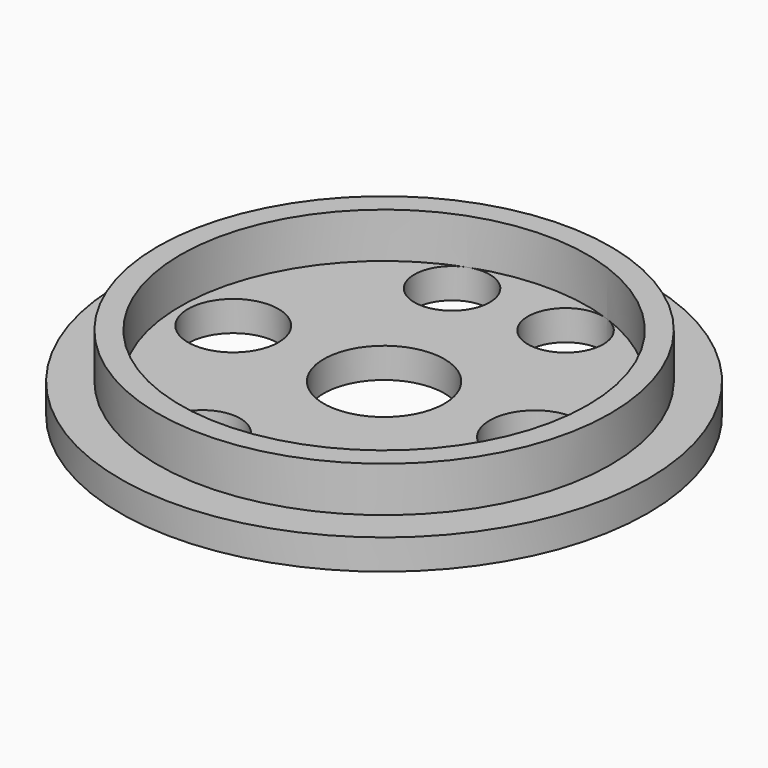
from build123d import *

# Parameters (mm, degrees)
SKETCH_R        = 17.5
SKETCH_R_2      = 4
PAD_DEPTH       = 2
SKETCH001_R     = 15
SKETCH001_R_2   = 13.5
PAD001_DEPTH    = 3
SKETCH002_R     = 3
POCKET_DEPTH    = 5
SKETCH004_R     = 2.5
POCKET001_DEPTH = 2.001


with BuildPart() as part:
    # Sketch → Pad (new body)
    with BuildSketch(Plane.XY):
        Circle(SKETCH_R)
        Circle(SKETCH_R_2, mode=Mode.SUBTRACT)
    extrude(amount=PAD_DEPTH)

    # Sketch001 (on Face4 of Pad) → Pad001 (join)
    with BuildSketch(Plane.XY.offset(2)):
        Circle(SKETCH001_R)
        Circle(SKETCH001_R_2, mode=Mode.SUBTRACT)
    extrude(amount=PAD001_DEPTH)

    # Sketch002 (on Face2 of Pad001) → Pocket (cut)
    with BuildSketch(Plane(origin=(0, 0, 0), x_dir=(1, 0, 0), z_dir=(0, 0, -1))):
        with Locations((-10, 0)):
            Circle(SKETCH002_R)
        with Locations((10, 0)):
            Circle(SKETCH002_R)
    extrude(amount=-POCKET_DEPTH, mode=Mode.SUBTRACT)

    # Sketch004 (on Face8 of Pocket) → Pocket001 (cut, through all)
    with BuildSketch(Plane.XY.offset(2)):
        with Locations((3.762222, -10.336619)):
            Circle(SKETCH004_R)
        with Locations((-3.762222, -10.336619)):
            Circle(SKETCH004_R)
        with Locations((3.762222, 10.336619)):
            Circle(SKETCH004_R)
        with Locations((-3.762222, 10.336619)):
            Circle(SKETCH004_R)
    extrude(amount=-POCKET001_DEPTH, mode=Mode.SUBTRACT)


solid = part.part
